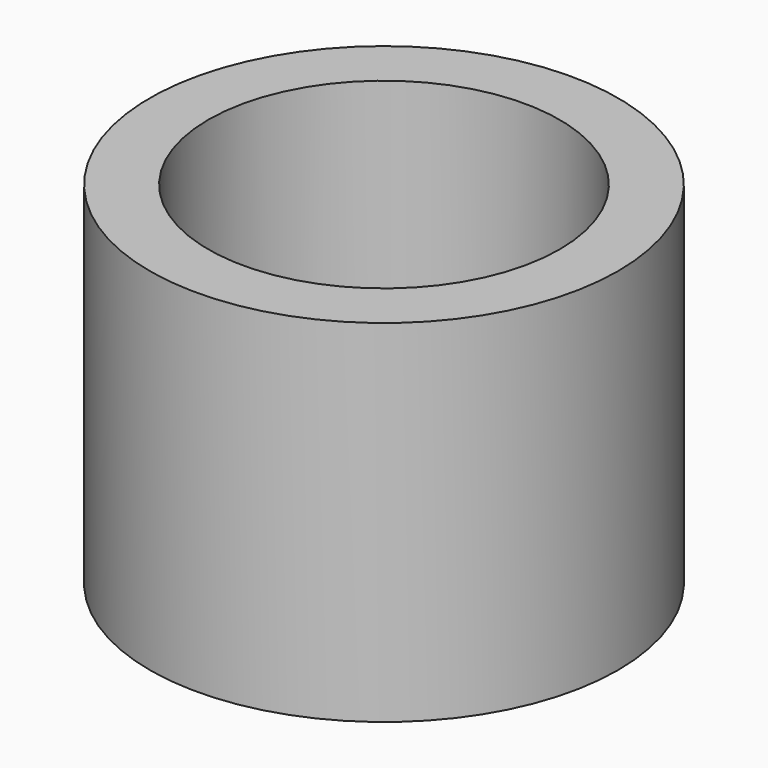
from build123d import *

# Parameters (mm, degrees)
CYLINDER001_R     = 0.6
CYLINDER001_DEPTH = 1.2
CYLINDER_R        = 0.8
CYLINDER_DEPTH    = 1.2


with BuildPart() as zylinder001:
    # Cylinder001 → Cylinder001 (new body)
    with BuildSketch(Plane.XY):
        Circle(CYLINDER001_R)
    extrude(amount=CYLINDER001_DEPTH)


with BuildPart() as via:
    # Cylinder → Cylinder (new body)
    with BuildSketch(Plane.XY):
        Circle(CYLINDER_R)
    extrude(amount=CYLINDER_DEPTH)

    # Cut: cut Zylinder001
    add(zylinder001.part, mode=Mode.SUBTRACT)


with BuildPart() as via_1:
    # Clone placement: moved
    add(via.part.moved(Location((0, 0, -1.5))))


solid = via_1.part
